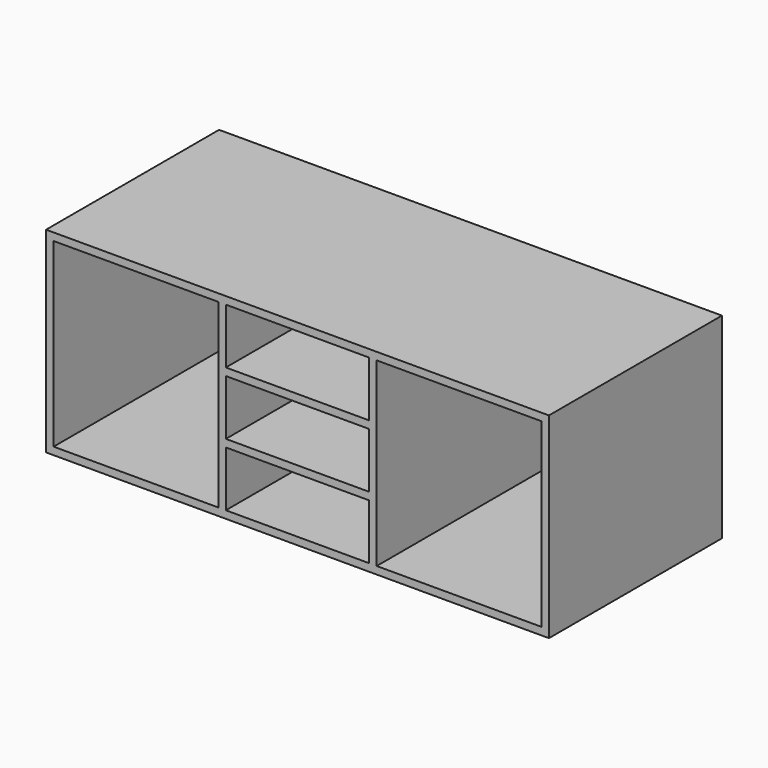
from build123d import *

# Parameters (mm, degrees)
F0_W     = 1000
F0_H     = 430
F1_DEPTH = 390
F2_W     = 285
F2_H     = 110
F2_W_2   = 327.5
F2_H_2   = 360
F3_DEPTH = 425


with BuildPart() as f1:
    # F0 (on Top) → F1 (new body)
    with BuildSketch(Plane.XY):
        Rectangle(F0_W, F0_H)
    extrude(amount=F1_DEPTH)

    # F2 (on face) → F3 (cut)
    with BuildSketch(Plane.XZ.offset(215)):
        with Locations((0, 195)):
            Rectangle(F2_W, F2_H)
        with Locations((0, 320)):
            Rectangle(F2_W, F2_H)
        with Locations((321.25, 195)):
            Rectangle(F2_W_2, F2_H_2)
        with Locations((-321.25, 195)):
            Rectangle(F2_W_2, F2_H_2)
        with Locations((0, 70)):
            Rectangle(F2_W, F2_H)
    extrude(amount=-F3_DEPTH, mode=Mode.SUBTRACT)


solid = f1.part
